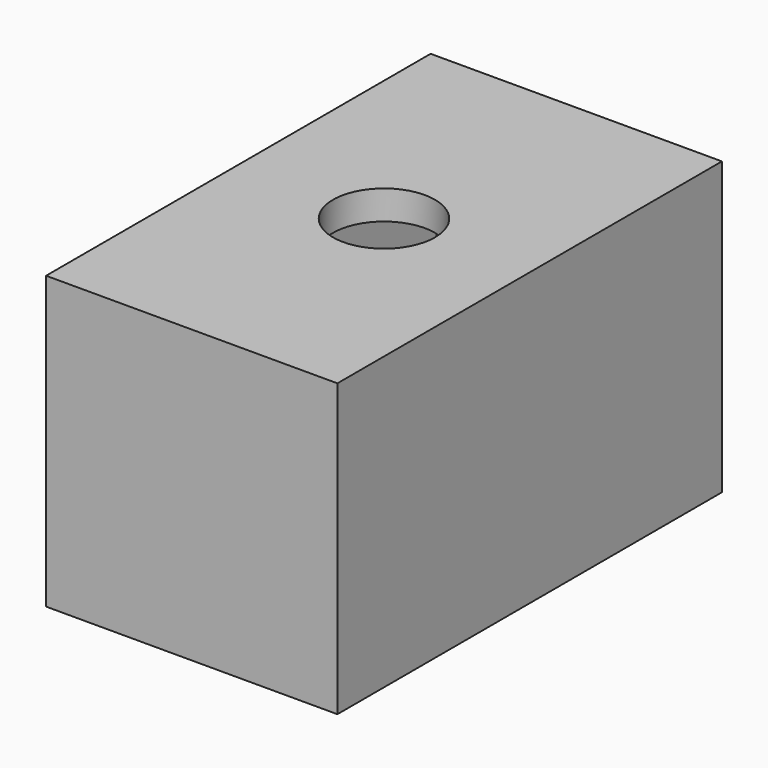
from build123d import *

# Parameters (mm, degrees)
F0_W     = 20
F0_H     = 33
F0_R     = 3.5
F1_DEPTH = 20
F2_W     = 16
F2_H     = 29
F2_R     = 3.5
F3_DEPTH = 18
F4_W     = 5
F4_H     = 2
F5_DEPTH = 5


with BuildPart() as f1:
    # F0 (on Top) → F1 (new body)
    with BuildSketch(Plane.XY):
        with Locations((-10, 16.5)):
            Rectangle(F0_W, F0_H)
        with Locations((-10, 16.5)):
            Circle(F0_R, mode=Mode.SUBTRACT)
    extrude(amount=F1_DEPTH)

    # F2 (on face) → F3 (cut)
    with BuildSketch(Plane(origin=(0, 0, 0), x_dir=(1, 0, 0), z_dir=(0, 0, -1))):
        with Locations((-10, -16.5)):
            Rectangle(F2_W, F2_H)
        with Locations((-10, -16.5)):
            Circle(F2_R, mode=Mode.SUBTRACT)
    extrude(amount=-F3_DEPTH, mode=Mode.SUBTRACT)

    # F4 (on face) → F5 (cut)
    with BuildSketch(Plane(origin=(0, 0, 0), x_dir=(1, 0, 0), z_dir=(0, 0, -1))):
        with Locations((-10, -32)):
            Rectangle(F4_W, F4_H)
    extrude(amount=-F5_DEPTH, mode=Mode.SUBTRACT)


solid = f1.part
